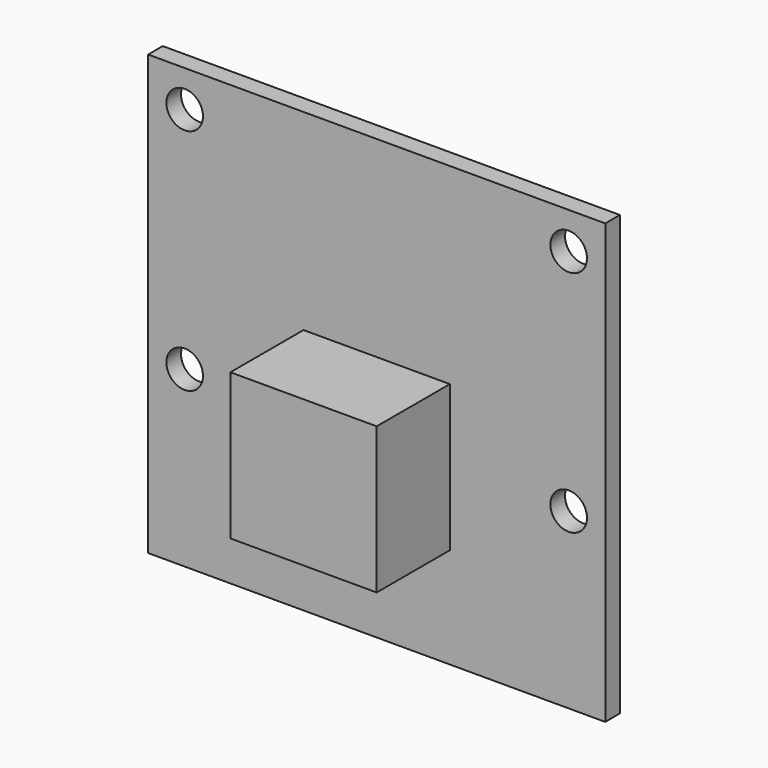
from build123d import *

# Parameters (mm, degrees)
F0_W     = 25
F0_H     = 24
F1_DEPTH = 1
F2_W     = 8
F2_H     = 8
F3_DEPTH = 5
F4_R     = 1
F5_DEPTH = 1.001


with BuildPart() as f1:
    # F0 (on Front) → F1 (new body)
    with BuildSketch(Plane.XZ):
        Rectangle(F0_W, F0_H)
    extrude(amount=F1_DEPTH)

    # F2 (on face) → F3 (join)
    with BuildSketch(Plane.XZ.offset(1)):
        with Locations((0, -2.5)):
            Rectangle(F2_W, F2_H)
    extrude(amount=F3_DEPTH)

    # F4 (on face) → F5 (cut, through all)
    with BuildSketch(Plane.XZ.offset(1)):
        with Locations((10.5, 10)):
            Circle(F4_R)
        with Locations((-10.5, 10)):
            Circle(F4_R)
        with Locations((-10.5, -2.5)):
            Circle(F4_R)
        with Locations((10.5, -2.5)):
            Circle(F4_R)
    extrude(amount=-F5_DEPTH, mode=Mode.SUBTRACT)


solid = f1.part
